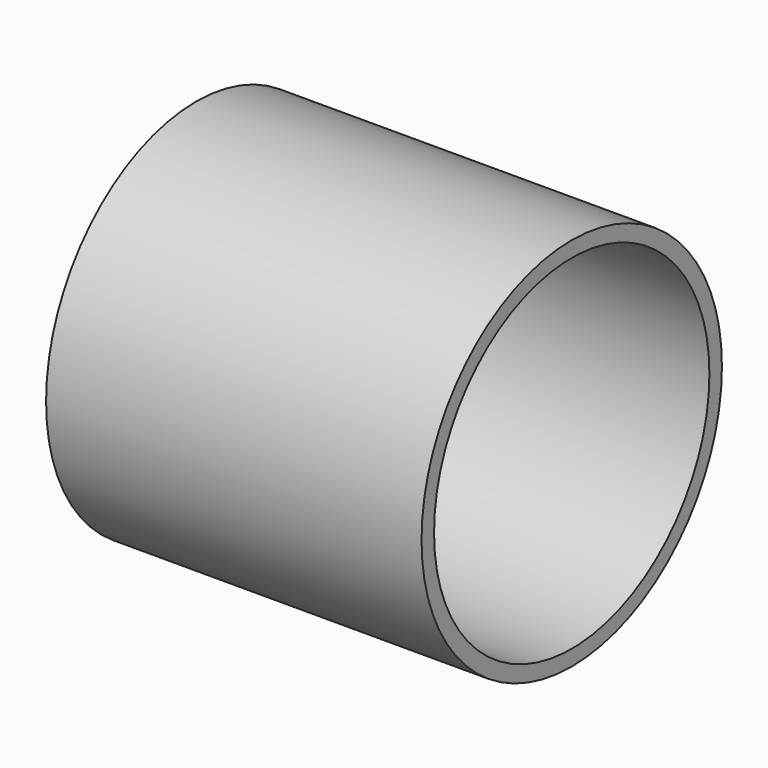
from build123d import *

# Parameters (mm, degrees)
SKETCH036_W = 12
SKETCH036_H = 0.5


with BuildPart() as washer:
    # Sketch036 → Revolution001 (revolve)
    with BuildSketch(Plane.XY):
        with Locations((-18.5, 5.75)):
            Rectangle(SKETCH036_W, SKETCH036_H)
    revolve(axis=Axis((0, 0, 0), (1, 0, 0)))


with BuildPart() as washer_1:
    # Body008 placement: moved
    add(washer.part.moved(Location((0, -51, -44))))


with BuildPart() as part_mirroring006:
    # Part__Mirroring006: instance of washer
    add(washer_1.part.mirror(Plane(origin=(0, 0, 0), x_dir=(0, -1, 0), z_dir=(1, 0, 0))))


with BuildPart() as part_mirroring007:
    # Part__Mirroring007: instance of Part__Mirroring006
    add(part_mirroring006.part.mirror(Plane(origin=(0, 0, 0), x_dir=(1, 0, 0), z_dir=(0, 1, 0))))


with BuildPart() as part_mirroring008:
    # Part__Mirroring008: instance of Part__Mirroring007
    add(part_mirroring007.part.mirror(Plane(origin=(0, 0, 0), x_dir=(0, -1, 0), z_dir=(1, 0, 0))))


solid = part_mirroring008.part
